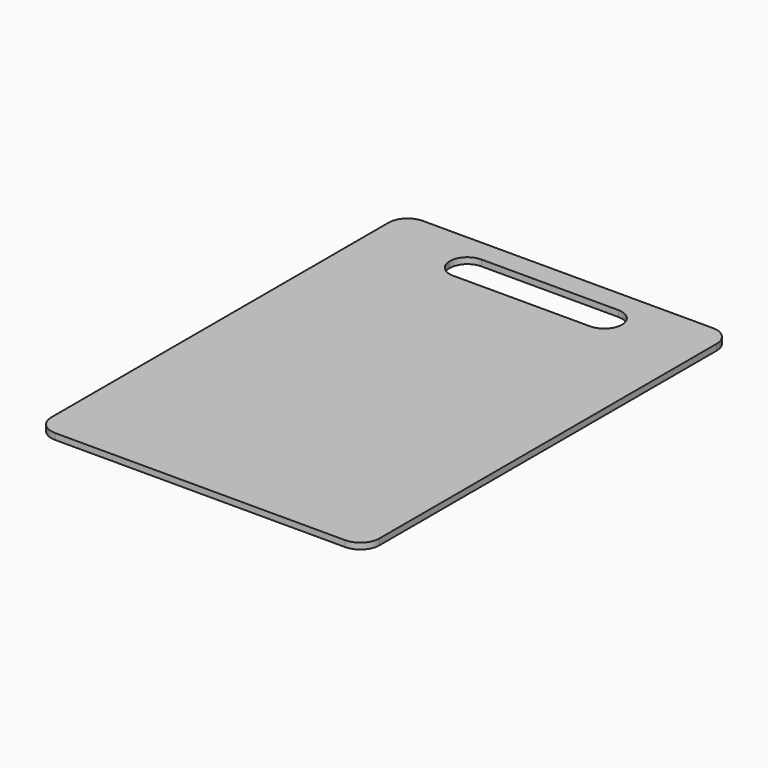
from build123d import *

# Parameters (mm, degrees)
F1_DEPTH = 4.5


with BuildPart() as f1:
    # F0 (on Top) → F1 (new body)
    with BuildSketch(Plane.XY):
        with BuildLine():
            Line((104.879995, 146.808884), (-109.120005, 146.808884))
            ThreePointArc((-109.120005, 146.808884), (-119.0195, 142.708379), (-123.120005, 132.808884))
            Line((-123.120005, 132.808884), (-123.120005, -178.191116))
            ThreePointArc((-123.120005, -178.191116), (-119.0195, -188.090611), (-109.120005, -192.191116))
            Line((-109.120005, -192.191116), (104.879995, -192.191116))
            ThreePointArc((104.879995, -192.191116), (114.77949, -188.090611), (118.879995, -178.191116))
            Line((118.879995, -178.191116), (118.879995, 132.808884))
            ThreePointArc((118.879995, 132.808884), (114.77949, 142.708379), (104.879995, 146.808884))
        make_face()
        with BuildLine():
            ThreePointArc((-65.620005, 117.308884), (-61.812393, 126.501272), (-52.620005, 130.308884))
            Line((-52.620005, 130.308884), (48.379995, 130.308884))
            ThreePointArc((48.379995, 130.308884), (57.572383, 126.501272), (61.379995, 117.308884))
            ThreePointArc((61.379995, 117.308884), (57.572383, 108.116496), (48.379995, 104.308884))
            Line((48.379995, 104.308884), (-52.620005, 104.308884))
            ThreePointArc((-52.620005, 104.308884), (-61.812393, 108.116496), (-65.620005, 117.308884))
        make_face(mode=Mode.SUBTRACT)
    extrude(amount=F1_DEPTH)


solid = f1.part
